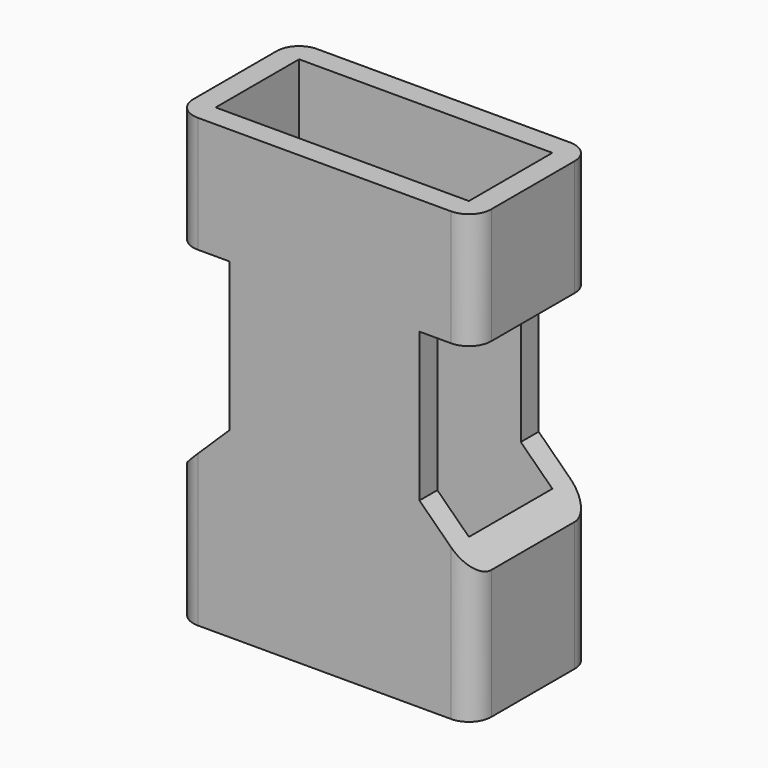
from build123d import *

# Parameters (mm, degrees)
F0_W     = 34
F0_H     = 14
F1_DEPTH = 60
F3_DEPTH = 12.5


with BuildPart() as f1:
    # F0 (on Top) → F1 (new body)
    with BuildSketch(Plane.XY):
        with BuildLine():
            Line((-17, -10), (17, -10))
            ThreePointArc((17, -10), (19.12132, -9.12132), (20, -7))
            Line((20, -7), (20, 7))
            ThreePointArc((20, 7), (19.12132, 9.12132), (17, 10))
            Line((17, 10), (-17, 10))
            ThreePointArc((-17, 10), (-19.12132, 9.12132), (-20, 7))
            Line((-20, 7), (-20, -7))
            ThreePointArc((-20, -7), (-19.12132, -9.12132), (-17, -10))
        make_face()
        Rectangle(F0_W, F0_H, mode=Mode.SUBTRACT)
    extrude(amount=F1_DEPTH)

    # F2 (on Front) → F3 (cut, symmetric)
    with BuildSketch(Plane.XZ):
        Polygon((-25.043013, 44.406913), (-22.849802, 14.579257), (-12.761037, 24.448702), (-12.761037, 44.406913), align=None)
        Polygon((22.849802, 14.579257), (25.043013, 44.406913), (12.761037, 44.406913), (12.761037, 24.448702), align=None)
    extrude(amount=F3_DEPTH, both=True, mode=Mode.SUBTRACT)


solid = f1.part
